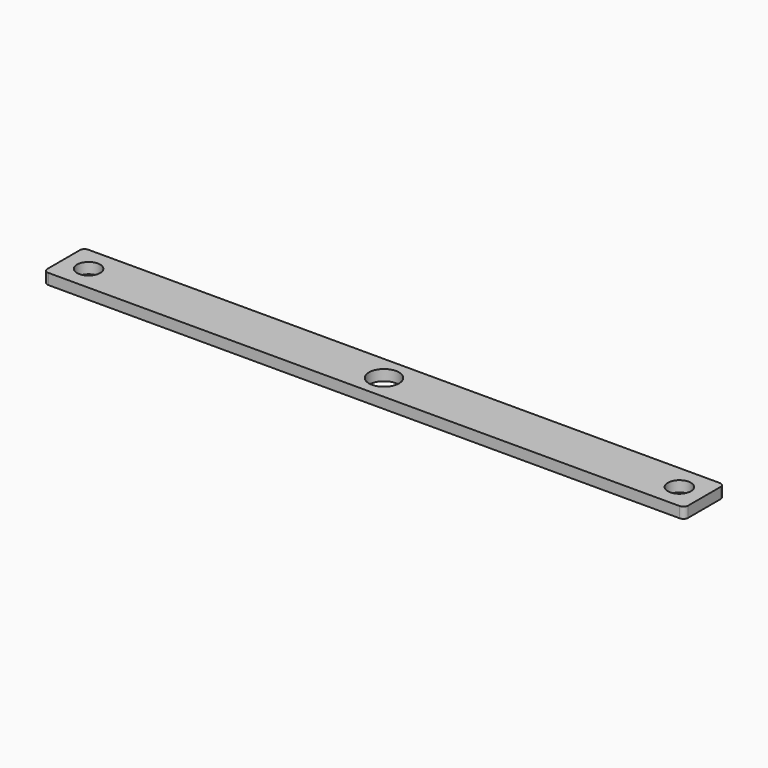
from build123d import *

# Parameters (mm, degrees)
F0_W     = 101.6
F0_H     = 7.9375
F0_R     = 1.8288
F0_R_2   = 2.38125
F1_DEPTH = 1.70942
F2_R     = 0.762


with BuildPart() as f1:
    # F0 (on Top) → F1 (new body)
    with BuildSketch(Plane.XY):
        Rectangle(F0_W, F0_H)
        with Locations((-46.83125, 0)):
            Circle(F0_R, mode=Mode.SUBTRACT)
        Circle(F0_R_2, mode=Mode.SUBTRACT)
        with Locations((46.83125, 0)):
            Circle(F0_R, mode=Mode.SUBTRACT)
    extrude(amount=F1_DEPTH)

    # F2
    f2_edges = [f1.edges().sort_by_distance(p)[0] for p in [
        (50.8, 3.96875, 0.85471),
        (-50.8, 3.96875, 0.85471),
        (-50.8, -3.96875, 0.85471),
        (50.8, -3.96875, 0.85471),
    ]]
    fillet(f2_edges, radius=F2_R)


solid = f1.part
